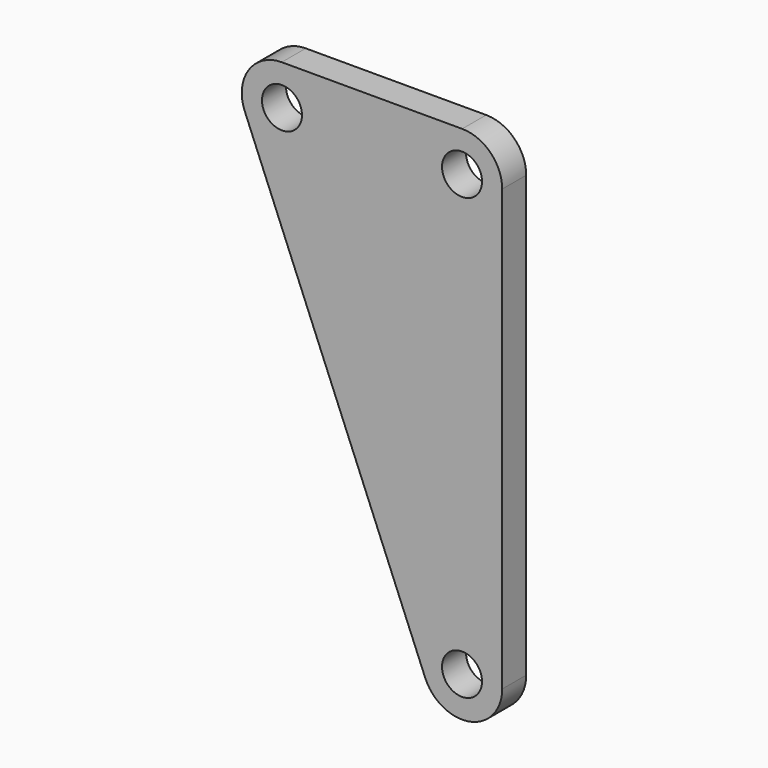
from build123d import *

# Parameters (mm, degrees)
F0_R     = 3.175
F1_DEPTH = 4.7625


with BuildPart() as f1:
    # F0 (on Front) → F1 (new body)
    with BuildSketch(Plane.XZ):
        with BuildLine():
            ThreePointArc((-12.225481, -40.508574), (-5.122564, -44.330241), (0, -38.1))
            Line((0, -38.1), (0, 31.75))
            ThreePointArc((0, 31.75), (-1.859872, 36.240128), (-6.35, 38.1))
            Line((-6.35, 38.1), (-20.66703, 38.1))
            Line((-20.66703, 38.1), (-34.984061, 38.1))
            ThreePointArc((-34.984061, 38.1), (-40.257435, 35.287517), (-40.859541, 29.341426))
            Line((-40.859541, 29.341426), (-12.225481, -40.508574))
        make_face()
        with Locations((-6.37953, -38.1)):
            Circle(F0_R, mode=Mode.SUBTRACT)
        with Locations((-34.95453, 31.75)):
            Circle(F0_R, mode=Mode.SUBTRACT)
        with Locations((-6.37953, 31.75)):
            Circle(F0_R, mode=Mode.SUBTRACT)
    extrude(amount=F1_DEPTH)


solid = f1.part
